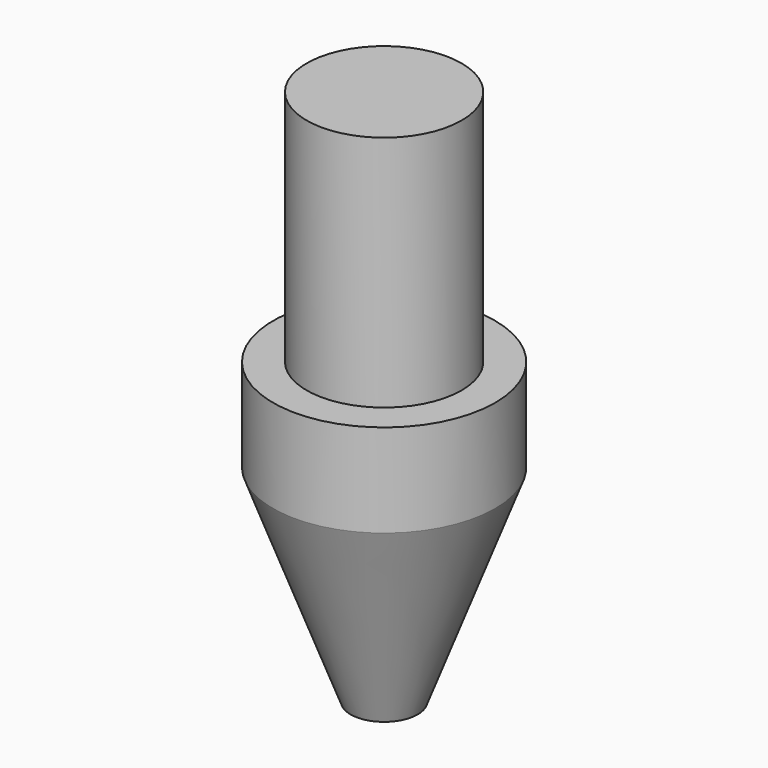
from build123d import *

# Parameters (mm, degrees)
F0_R     = 21.5
F1_DEPTH = 58
F2_R     = 15
F3_DEPTH = 46
F4_SIZE2 = 15
F4_SIZE  = 40


with BuildPart() as f1:
    # F0 (on Top) → F1 (new body)
    with BuildSketch(Plane.XY):
        Circle(F0_R)
    extrude(amount=F1_DEPTH)

    # F2 (on face) → F3 (join)
    with BuildSketch(Plane.XY.offset(58)):
        Circle(F2_R)
    extrude(amount=F3_DEPTH)

    # F4
    f4_edges = [f1.edges().sort_by_distance(p)[0] for p in [
        (-21.5, 0, 0),
    ]]
    chamfer(f4_edges, length=F4_SIZE, length2=F4_SIZE2)


solid = f1.part
